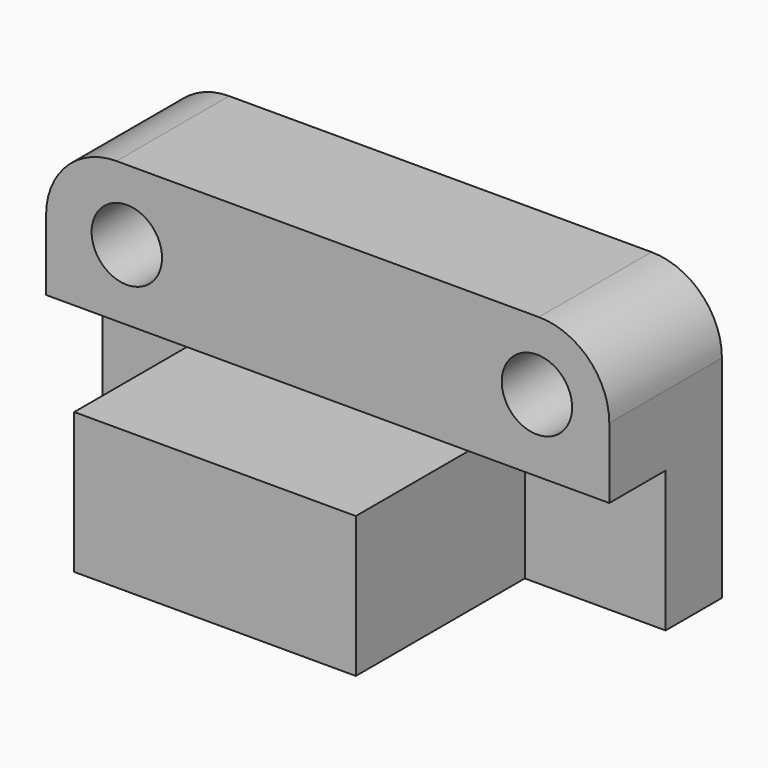
from build123d import *

# Parameters (mm, degrees)
F0_W     = 203.2
F0_H     = 101.6
F1_DEPTH = 101.6
F2_W     = 50.8
F2_H     = 50.8
F3_DEPTH = 76.2
F4_W     = 203.2
F4_H     = 50.8
F5_DEPTH = 50.8
F6_R     = 25.4
F7_R     = 12.7
F8_DEPTH = 101.6


with BuildPart() as f1:
    # F0 (on Top) → F1 (new body)
    with BuildSketch(Plane.XY):
        with Locations((6.3713937998, -17.1352989659)):
            Rectangle(F0_W, F0_H)
    extrude(amount=F1_DEPTH)

    # F2 (on face) → F3 (cut)
    with BuildSketch(Plane.XZ.offset(67.9352989659)):
        with Locations((-69.8286062002, 25.4)):
            Rectangle(F2_W, F2_H)
        with Locations((82.5713937998, 25.4)):
            Rectangle(F2_W, F2_H)
    extrude(amount=-F3_DEPTH, mode=Mode.SUBTRACT)

    # F4 (on face) → F5 (cut)
    with BuildSketch(Plane.XZ.offset(67.9352989659)):
        with Locations((6.3713937998, 76.2)):
            Rectangle(F4_W, F4_H)
    extrude(amount=-F5_DEPTH, mode=Mode.SUBTRACT)

    # F6
    f6_edges = [f1.edges().sort_by_distance(p)[0] for p in [
        (107.971394, 8.264701, 101.6),
        (-95.228606, 8.264701, 101.6),
    ]]
    fillet(f6_edges, radius=F6_R)

    # F7 (on face) → F8 (cut)
    with BuildSketch(Plane.XZ.offset(17.1352989659)):
        with Locations((81.8677269595, 76.7813124852)):
            Circle(F7_R)
        with Locations((-66.1030446438, 76.2)):
            Circle(F7_R)
    extrude(amount=-F8_DEPTH, mode=Mode.SUBTRACT)


solid = f1.part
